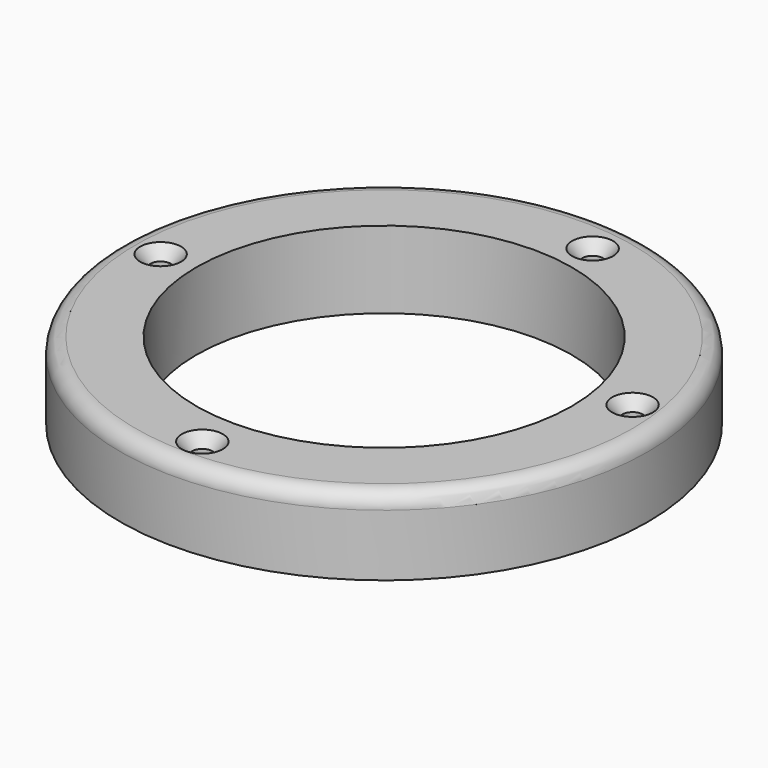
from build123d import *

# Parameters (mm, degrees)
F0_R           = 86.927765
F0_R_2         = 61.88106
F1_DEPTH       = 25.4
F3_D           = 6.7564
F3_CSINK_D     = 13.4874
F3_CSINK_ANGLE = 82
F4_R           = 5.08


with BuildPart() as f1:
    # F0 (on Top) → F1 (new body)
    with BuildSketch(Plane.XY):
        Circle(F0_R)
        Circle(F0_R_2, mode=Mode.SUBTRACT)
    extrude(amount=F1_DEPTH)

    # F3 (through all)
    with Locations(Plane.XY.offset(25.4)):
        with Locations((-73.593527, 0), (0, -74.825756), (73.592886, 10.307162), (11.192732, 71.860947)):
            CounterSinkHole(F3_D / 2, F3_CSINK_D / 2, counter_sink_angle=F3_CSINK_ANGLE)

    # F4
    f4_edges = [f1.edges().sort_by_distance(p)[0] for p in [
        (-86.927765, 0, 25.4),
    ]]
    fillet(f4_edges, radius=F4_R)


solid = f1.part
